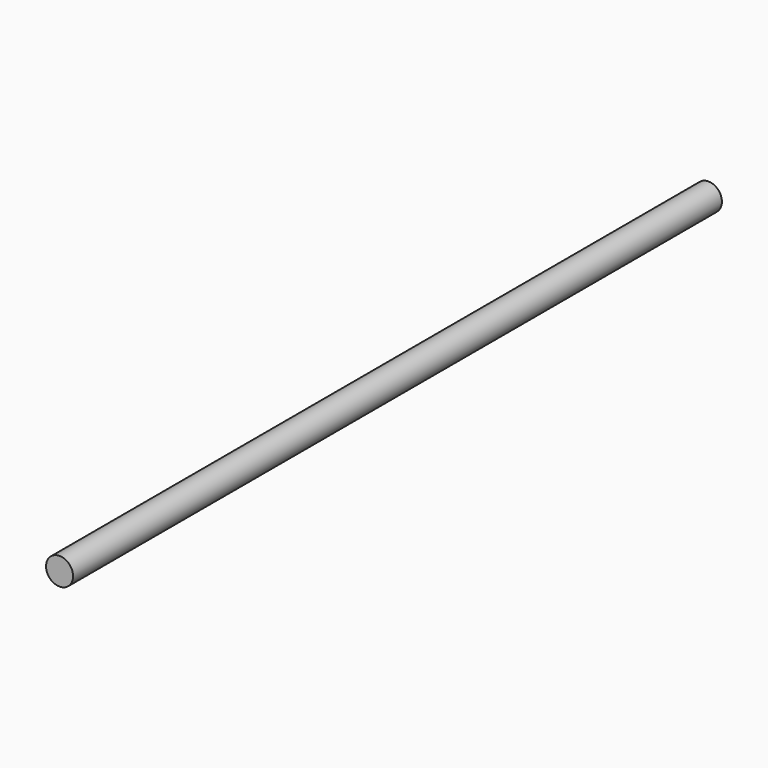
from build123d import *

# Parameters (mm, degrees)
SKETCH_R  = 6
PAD_DEPTH = 360


with BuildPart() as part:
    # Sketch → Pad (new body)
    with BuildSketch(Plane.XZ):
        Circle(SKETCH_R)
    extrude(amount=PAD_DEPTH)


solid = part.part
